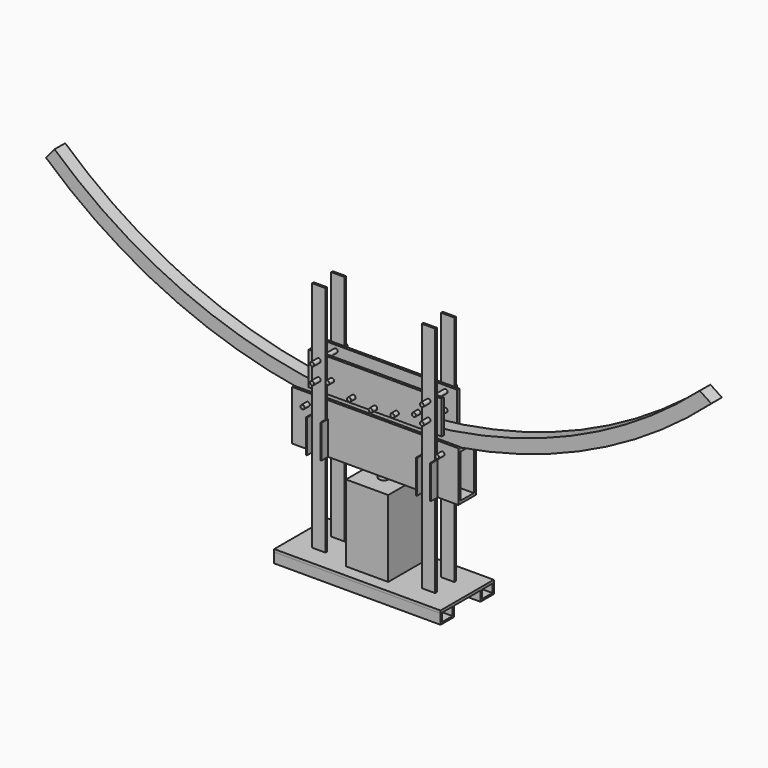
from build123d import *

# Parameters (mm, degrees)
F1_DEPTH       = 20
F3_DEPTH       = 25
F5_R           = 6
F6_DEPTH       = 53
F9_W           = 500
F9_H           = 150
F10_DEPTH      = 8
F13_W          = 400
F13_H          = 100
F14_DEPTH      = 8
F17_DEPTH      = 8
F19_DEPTH      = 25
F20_R          = 6
F21_DEPTH      = 50
F23_W          = 127
F23_H          = 127
F24_DEPTH      = 230
F25_R          = 15
F26_DEPTH      = 150
F27_W          = 500
F27_H          = 200
F28_DEPTH      = 8
F29_W          = 40
F29_H          = 6
F30_DEPTH      = 700
F31_R          = 6
F32_DEPTH      = 25
F32_DEPTH_BACK = 100
F34_W          = 3
F34_H          = 25
F35_DEPTH      = 100
F39_DEPTH      = 500


with BuildPart() as f1:
    # F0 (on Front) → F1 (new body, symmetric)
    with BuildSketch(Plane.XZ):
        with BuildLine():
            Line((-974.568757, 412.886511), (-1000, 381.966011))
            ThreePointArc((-1000, 381.966011), (0, 0), (1000, 381.966011))
            Line((1000, 381.966011), (965.363415, 404.703931))
            ThreePointArc((965.363415, 404.703931), (-6.158185, 40.012987), (-974.568757, 412.886511))
        make_face()
    extrude(amount=F1_DEPTH, both=True)


with BuildPart() as f3:
    # F2 (on Front) → F3 (new body, symmetric)
    with BuildSketch(Plane.XZ):
        Polygon((-150.162039, 2.952013), (-248.584702, 20.643235), (-250, 12.769422), (-151.577337, -4.921801), align=None)
    extrude(amount=F3_DEPTH, both=True)


with BuildPart() as f4_1:
    # F4: instance of F3
    add(f3.part.mirror(Plane.YZ))


with BuildPart() as f6:
    # F5 (on Front) → F6 (new body, symmetric)
    with BuildSketch(Plane.XZ):
        with Locations((-202.380878, -4.934229)):
            Circle(F5_R)
    extrude(amount=F6_DEPTH, both=True)


with BuildPart() as f7_1:
    # F7: instance of F6
    add(f6.part.mirror(Plane.YZ))


with BuildPart() as f10:
    # F9 (on offset) → F10 (new body)
    with BuildSketch(Plane.XZ.offset(25)):
        with Locations((0, -50)):
            Rectangle(F9_W, F9_H)
    extrude(amount=F10_DEPTH)

    # F11: cut F6, F7_1
    add(f6.part, mode=Mode.SUBTRACT)
    add(f7_1.part, mode=Mode.SUBTRACT)


with BuildPart() as f12_1:
    # F12: instance of F10
    add(f10.part.mirror(Plane.XZ))


with BuildPart() as f14:
    # F13 (on offset) → F14 (new body)
    with BuildSketch(Plane.XZ.offset(25)):
        with Locations((0, 90)):
            Rectangle(F13_W, F13_H)
    extrude(amount=F14_DEPTH)


with BuildPart() as f15_1:
    # F15: instance of F14
    add(f14.part.mirror(Plane.XZ))


with BuildPart() as f17:
    # F16 (on face) → F17 (new body)
    with BuildSketch(Plane(origin=(0, 0, -125), x_dir=(1, 0, 0), z_dir=(0, 0, -1))):
        Polygon((25, 25), (-25, 25), (-250, 25), (-250, -25), (-25, -25), (25, -25), (250, -25), (250, 25), align=None)
    extrude(amount=-F17_DEPTH)


with BuildPart() as f19:
    # F18 (on Front) → F19 (new body, symmetric)
    with BuildSketch(Plane.XZ):
        with BuildLine():
            ThreePointArc((-150, 80.192379), (0, 40), (150, 80.192379))
            Line((150, 80.192379), (147.5, 84.522506))
            ThreePointArc((147.5, 84.522506), (0, 45), (-147.5, 84.522506))
            Line((-147.5, 84.522506), (-150, 80.192379))
        make_face()
    extrude(amount=F19_DEPTH, both=True)


with BuildPart() as f21:
    # F20 (on Front) → F21 (new body, symmetric)
    with BuildSketch(Plane.XZ):
        with Locations((0, 51)):
            Circle(F20_R)
        with Locations((-65, 58.404545)):
            Circle(F20_R)
        with Locations((65, 58.404545)):
            Circle(F20_R)
        with Locations((-130, 81.889559)):
            Circle(F20_R)
        with Locations((130, 81.889559)):
            Circle(F20_R)
    extrude(amount=F21_DEPTH, both=True)


with BuildPart() as f24:
    # F23 (on offset) → F24 (new body)
    with BuildSketch(Plane.XY.offset(-377)):
        Rectangle(F23_W, F23_H)
    extrude(amount=F24_DEPTH)


with BuildPart() as f26:
    # F25 (on face) → F26 (new body)
    with BuildSketch(Plane.XY.offset(-147)):
        Circle(F25_R)
    extrude(amount=F26_DEPTH)


with BuildPart() as f28:
    # F27 (on offset) → F28 (new body)
    with BuildSketch(Plane.XY.offset(-377)):
        Rectangle(F27_W, F27_H)
    extrude(amount=-F28_DEPTH)


with BuildPart() as f30:
    # F29 (on face) → F30 (new body)
    with BuildSketch(Plane.XY.offset(-377)):
        with Locations((-165, 36)):
            Rectangle(F29_W, F29_H)
        with Locations((-165, -36)):
            Rectangle(F29_W, F29_H)
        with Locations((165, -36)):
            Rectangle(F29_W, F29_H)
        with Locations((165, 36)):
            Rectangle(F29_W, F29_H)
    extrude(amount=F30_DEPTH)


with BuildPart() as f32:
    # F31 (on face) → F32 (new body, two sides)
    with BuildSketch(Plane.XZ.offset(39)) as f32_sk:
        with Locations((-165, 125)):
            Circle(F31_R)
        with Locations((-165, 75)):
            Circle(F31_R)
        with Locations((165, 125)):
            Circle(F31_R)
        with Locations((165, 75)):
            Circle(F31_R)
    extrude(amount=F32_DEPTH)
    extrude(f32_sk.sketch, amount=-F32_DEPTH_BACK)


with BuildPart() as f30_1:
    add(f30.part)

    # F33: cut F32
    add(f32.part, mode=Mode.SUBTRACT)


with BuildPart() as f14_1:
    add(f14.part)

    # F33: cut F32
    add(f32.part, mode=Mode.SUBTRACT)


with BuildPart() as f15_1_1:
    add(f15_1.part)

    # F33: cut F32
    add(f32.part, mode=Mode.SUBTRACT)


with BuildPart() as f35:
    # F34 (on face) → F35 (new body)
    with BuildSketch(Plane(origin=(0, 0, -125), x_dir=(1, 0, 0), z_dir=(0, 0, -1))):
        with Locations((-186.5, 45.5)):
            Rectangle(F34_W, F34_H)
        with Locations((-143.5, 45.5)):
            Rectangle(F34_W, F34_H)
    extrude(amount=-F35_DEPTH)


with BuildPart() as f36_1:
    # F36: instance of F35
    add(f35.part.mirror(Plane.YZ))


with BuildPart() as f37_1:
    # F37: instance of F35
    add(f35.part.mirror(Plane.XZ))


with BuildPart() as f37_2:
    # F37: instance of F36_1
    add(f36_1.part.mirror(Plane.XZ))


with BuildPart() as f39:
    # F38 (on face) → F39 (new body, through all)
    with BuildSketch(Plane.YZ.offset(250)):
        Polygon((-95, -385), (-100, -385), (-100, -415), (-50, -415), (-50, -385), (-55, -385), (-55, -410), (-95, -410), align=None)
    extrude(amount=-F39_DEPTH)


with BuildPart() as f40_1:
    # F40: instance of F39
    add(f39.part.mirror(Plane.XZ))


solid = Compound([f1.part, f3.part, f4_1.part, f6.part, f7_1.part, f10.part, f12_1.part, f17.part, f19.part, f21.part, f24.part, f26.part, f28.part, f32.part, f30_1.part, f14_1.part, f15_1_1.part, f35.part, f36_1.part, f37_1.part, f37_2.part, f39.part, f40_1.part])
